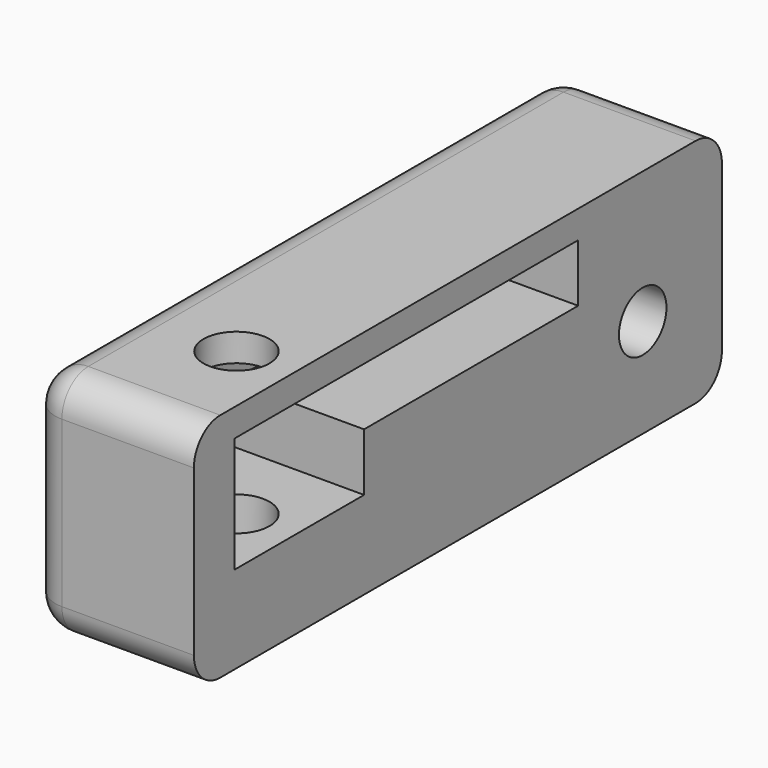
from build123d import *

# Parameters (mm, degrees)
CYLINDER009_R     = 2
CYLINDER009_DEPTH = 50
PAD001_DEPTH      = 30
CYLINDER008_R     = 1.8
CYLINDER008_DEPTH = 50
BOX006_W          = 10
BOX006_H          = 40
BOX006_DEPTH      = 14
FILLET_R          = 2


with BuildPart() as cylinder009:
    # Cylinder009 → Cylinder009 (new body)
    with BuildSketch(Plane(origin=(-105.5, -30.4, -37), x_dir=(1, 0, 0), z_dir=(0, 0, 1))):
        Circle(CYLINDER009_R)
    extrude(amount=CYLINDER009_DEPTH)


with BuildPart() as body001:
    # Sketch001 → Pad001 (new body)
    with BuildSketch(Plane.YZ):
        Polygon((-34.905251, -9.681131), (-8.889799, -9.681131), (-8.889799, -13.181131), (-25.107943, -13.181131), (-25.107943, -16.681131), (-34.905251, -16.681131), align=None)
    extrude(amount=PAD001_DEPTH)


with BuildPart() as body001_1:
    # Body001 placement: moved
    add(body001.part.moved(Location((-110, 0, 0))))


with BuildPart() as fusion001005:
    # Cylinder008 → Cylinder008 (new body)
    with BuildSketch(Plane(origin=(-143, -4, -16), x_dir=(0, 0, -1), z_dir=(1, 0, 0))):
        Circle(CYLINDER008_R)
    extrude(amount=CYLINDER008_DEPTH)

    # Fusion001005: union Cylinder009, Body001
    add(cylinder009.part)
    add(body001_1.part)


with BuildPart() as fillet_body:
    # Box006 → Box006 (new body)
    with BuildSketch(Plane(origin=(-112, -38, -22), x_dir=(1, 0, 0), z_dir=(0, 0, 1))):
        with Locations((5, 20)):
            Rectangle(BOX006_W, BOX006_H)
    extrude(amount=BOX006_DEPTH)

    # Cut009: cut Fusion001005
    add(fusion001005.part, mode=Mode.SUBTRACT)

    # Fillet
    fillet_edges = [fillet_body.edges().sort_by_distance(p)[0] for p in [
        (-112, -38, -15),
        (-112, -18, -8),
        (-112, -18, -22),
        (-112, 2, -15),
        (-107, -38, -22),
        (-107, -38, -8),
        (-107, 2, -8),
        (-107, 2, -22),
    ]]
    fillet(fillet_edges, radius=FILLET_R)


solid = fillet_body.part
